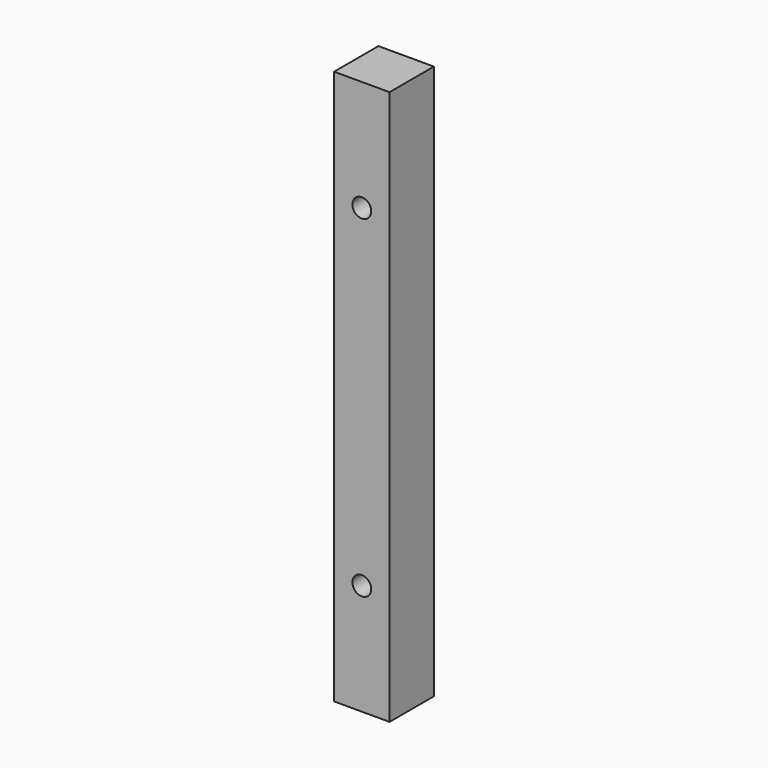
from build123d import *

# Parameters (mm, degrees)
F0_W     = 10
F0_H     = 10
F1_DEPTH = 100
F3_D     = 3.4


with BuildPart() as f1:
    # F0 (on Top) → F1 (new body)
    with BuildSketch(Plane.XY):
        Rectangle(F0_W, F0_H)
    extrude(amount=F1_DEPTH)

    # F3 (through all)
    with Locations(Plane.XZ.offset(5)):
        with Locations((0, 80), (0, 20)):
            Hole(F3_D / 2)


solid = f1.part
